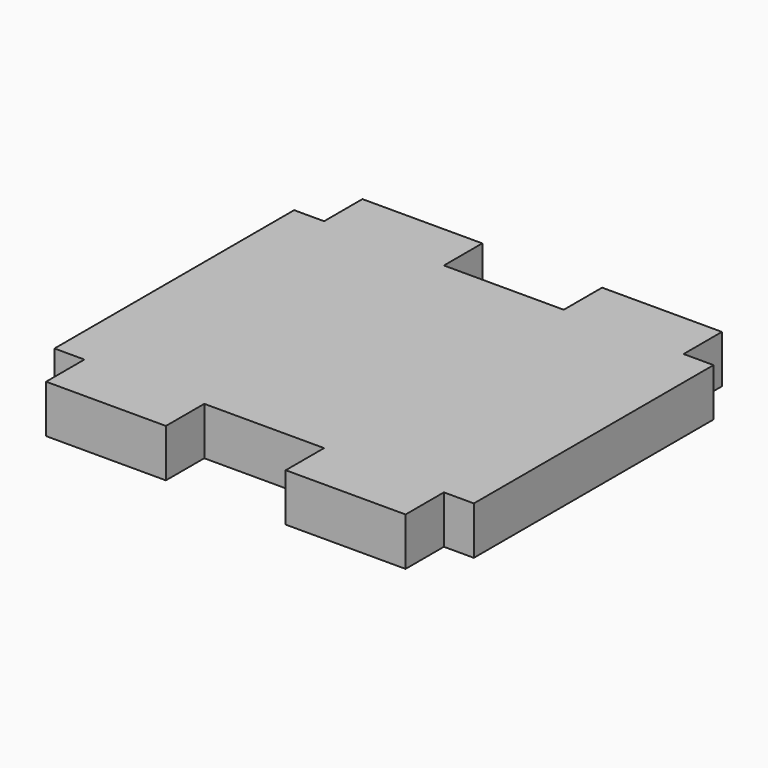
from build123d import *

# Parameters (mm, degrees)
F1_DEPTH = 4


with BuildPart() as f1:
    # F0 (on Top) → F1 (new body)
    with BuildSketch(Plane.XY):
        Polygon((-17.5, 12.5), (-17.5, 0), (-17.5, -12.5), (-15, -12.5), (-15, -16.5), (-5, -16.5), (-5, -12.5), (0, -12.5), (5, -12.5), (5, -16.5), (15, -16.5), (15, -12.5), (17.5, -12.5), (17.5, 0), (17.5, 12.5), (15, 12.5), (15, 16.5), (5, 16.5), (5, 12.5), (0, 12.5), (-5, 12.5), (-5, 16.5), (-15, 16.5), (-15, 12.5), align=None)
    extrude(amount=F1_DEPTH)


solid = f1.part
